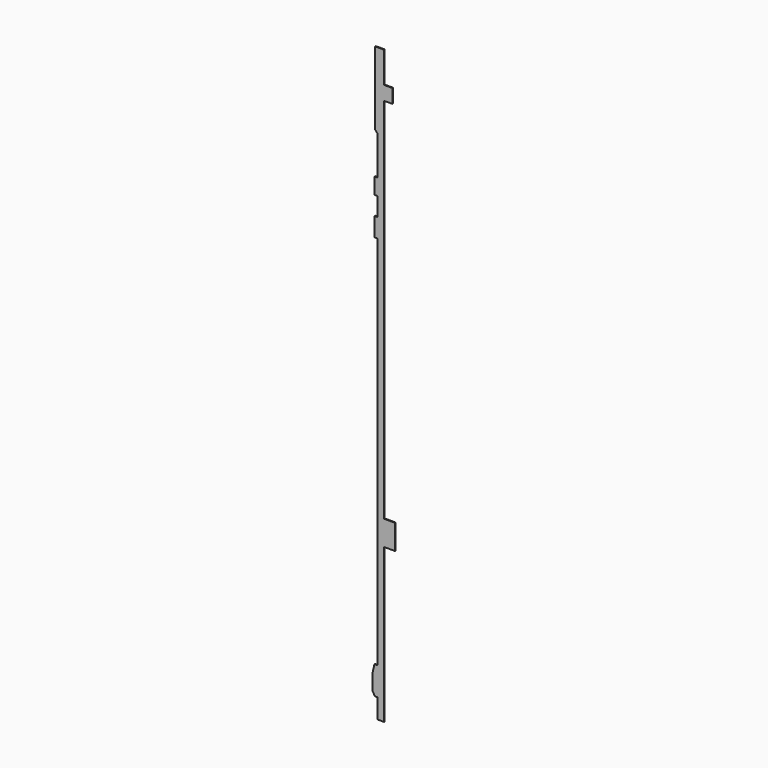
from build123d import *

# Parameters (mm, degrees)
F0_W     = 7.0000114
F0_H     = 15.690000116
F0_W_2   = 5.3216247485
F0_H_2   = 8.8151550261
F0_W_3   = 2.0066
F0_H_3   = 11.810079217
F1_DEPTH = 0.508


with BuildPart() as f1:
    # F0 (on Front) → F1 (new body)
    with BuildSketch(Plane.XZ):
        with Locations((5.52500546, -57.8047999446)):
            Rectangle(F0_W, F0_H)
        Polygon((-3.7249989, -150.6068728096), (-2.02499976, -150.6068728096), (-2.02499976, -132.8114265229), (-4.02500084, -132.8114265229), (-5.3829495487, -138.7583439147), (-5.3829495487, -147.7883436347), align=None)
        with Locations((4.6858121343, 186.95495248)):
            Rectangle(F0_W_2, F0_H_2)
        with Locations((-0.6358126143, 186.95495248)):
            Rectangle(F0_W_2, F0_H_2)
        Polygon((-2.02499976, 162.95500048), (2.02499976, 162.95500048), (2.02499976, 182.5473749669), (-3.2966249885, 182.5473749669), (-3.2966249885, 191.3625299931), (2.02499976, 191.3625299931), (2.02499976, 210.95490448), (-3.5745226778, 210.95490448), (-3.5745226778, 164.639160037), align=None)
        Polygon((-2.02499976, -65.6498000026), (2.02499976, -65.6498000026), (2.02499976, -49.9597998866), (2.02499976, 162.95500048), (-2.02499976, 162.95500048), (-2.02499976, 138.4591047888), (-2.02499976, 128.2791048288), (-2.02499976, 116.4703965187), (-2.02499976, 104.6603173018), align=None)
        with Locations((-3.02829976, 110.5653569102)):
            Rectangle(F0_W_3, F0_H_3)
        Polygon((-2.02499976, -162.95500048), (2.02499976, -162.95500048), (2.02499976, -65.6498000026), (-2.02499976, -65.6498000026), (-2.02499976, -132.8114265229), (-2.02499976, -150.6068728096), align=None)
        Polygon((-2.02499976, 128.2791048288), (-2.02499976, 138.4591047888), (-3.5745226778, 138.4591047888), (-4.02500084, 138.4591047888), (-4.02500084, 128.2791048288), align=None)
    extrude(amount=F1_DEPTH)


solid = f1.part
